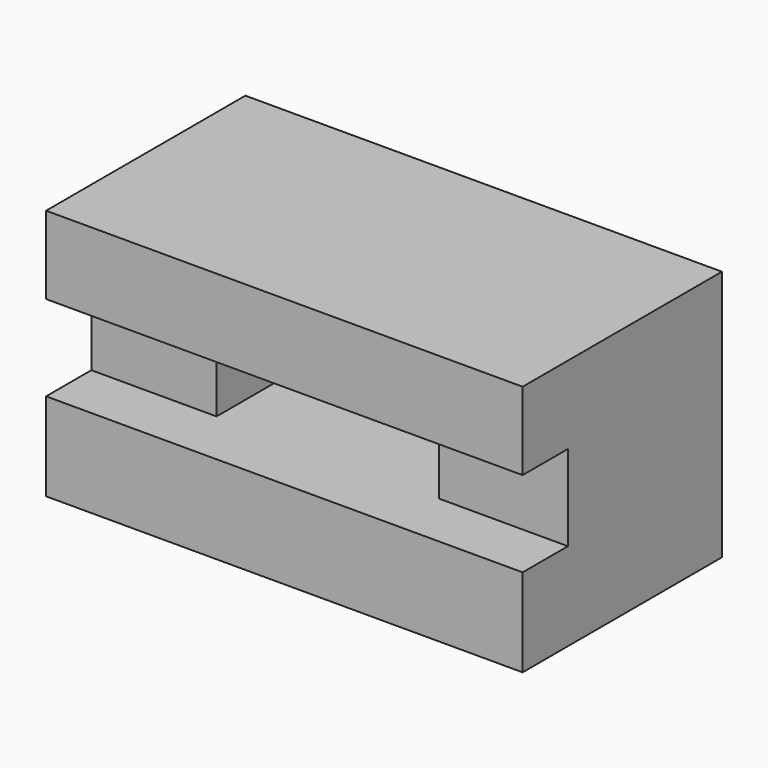
from build123d import *

# Parameters (mm, degrees)
F0_W     = 96.270095
F0_H     = 50.328871
F1_DEPTH = 50.8
F2_W     = 96.270095
F2_H     = 17.292487
F3_DEPTH = 11.43
F4_W     = 44.908839
F4_H     = 17.292487
F5_DEPTH = 70.104


with BuildPart() as f1:
    # F0 (on Top) → F1 (new body)
    with BuildSketch(Plane.XY):
        with Locations((6.065273, -2.710015)):
            Rectangle(F0_W, F0_H)
    extrude(amount=F1_DEPTH)

    # F2 (on face) → F3 (cut)
    with BuildSketch(Plane.XZ.offset(27.874451)):
        with Locations((6.065273, 26.432386)):
            Rectangle(F2_W, F2_H)
    extrude(amount=-F3_DEPTH, mode=Mode.SUBTRACT)

    # F4 (on face) → F5 (cut)
    with BuildSketch(Plane.XZ.offset(16.444451)):
        with Locations((5.678129, 26.432386)):
            Rectangle(F4_W, F4_H)
    extrude(amount=-F5_DEPTH, mode=Mode.SUBTRACT)


solid = f1.part
